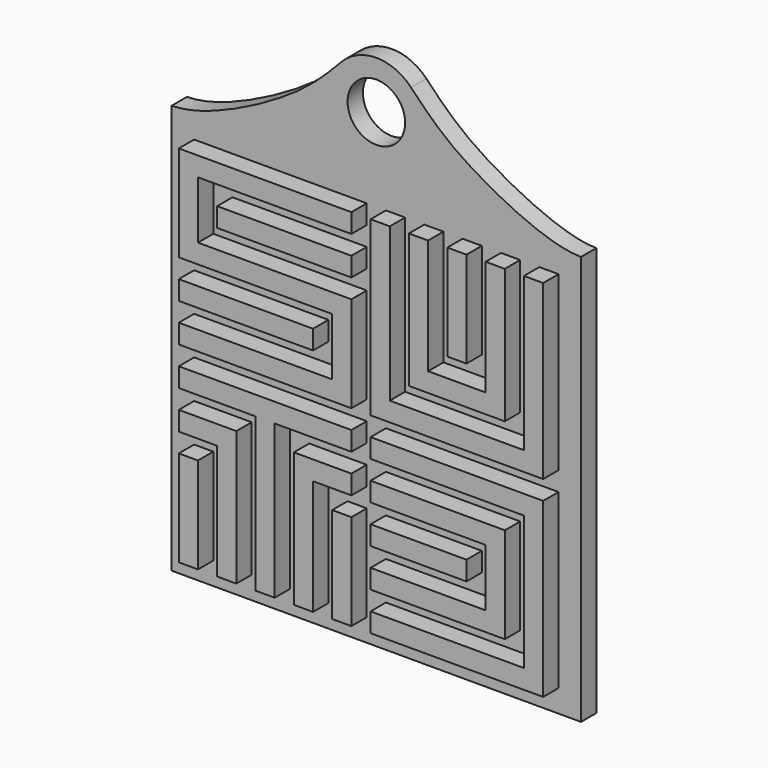
from build123d import *

# Parameters (mm, degrees)
F0_W     = 25.4
F0_H     = 25.4
F1_DEPTH = 25.4
F2_DEPTH = 25.4
F3_DEPTH = 25.4
F4_W     = 542.145707978
F4_H     = 542.145707978
F4_R     = 38.1
F5_DEPTH = 25.4


with BuildPart() as f1:
    # F0 (on Front) → F1 (new body)
    with BuildSketch(Plane.XZ):
        with Locations((101.6, 101.6)):
            Rectangle(F0_W, F0_H)
        with Locations((76.2, 101.6)):
            Rectangle(F0_W, F0_H)
        with Locations((50.8, 101.6)):
            Rectangle(F0_W, F0_H)
        with Locations((25.4, 101.6)):
            Rectangle(F0_W, F0_H)
        with Locations((0, 101.6)):
            Rectangle(F0_W, F0_H)
        with Locations((-25.4, 101.6)):
            Rectangle(F0_W, F0_H)
        with Locations((-50.8, 101.6)):
            Rectangle(F0_W, F0_H)
        with Locations((-76.2, 101.6)):
            Rectangle(F0_W, F0_H)
        with Locations((-101.6, 101.6)):
            Rectangle(F0_W, F0_H)
        with Locations((-101.6, 76.2)):
            Rectangle(F0_W, F0_H)
        with Locations((-101.6, 50.8)):
            Rectangle(F0_W, F0_H)
        with Locations((-101.6, 25.4)):
            Rectangle(F0_W, F0_H)
        with Locations((-101.6, 0)):
            Rectangle(F0_W, F0_H)
        with Locations((-76.2, 0)):
            Rectangle(F0_W, F0_H)
        with Locations((-50.8, 0)):
            Rectangle(F0_W, F0_H)
        with Locations((-25.4, 0)):
            Rectangle(F0_W, F0_H)
        Rectangle(F0_W, F0_H)
        with Locations((25.4, 0)):
            Rectangle(F0_W, F0_H)
        with Locations((50.8, 0)):
            Rectangle(F0_W, F0_H)
        with Locations((76.2, 0)):
            Rectangle(F0_W, F0_H)
        with Locations((101.6, 0)):
            Rectangle(F0_W, F0_H)
    extrude(amount=F1_DEPTH)

    # F0 (on Front) → F2, piece 4 (join)
    with BuildSketch(Plane.XZ):
        with Locations((101.6, -76.2)):
            Rectangle(F0_W, F0_H)
        with Locations((101.6, -25.4)):
            Rectangle(F0_W, F0_H)
        with Locations((101.6, -50.8)):
            Rectangle(F0_W, F0_H)
        with Locations((101.6, -101.6)):
            Rectangle(F0_W, F0_H)
        with Locations((25.4, -101.6)):
            Rectangle(F0_W, F0_H)
        with Locations((50.8, -101.6)):
            Rectangle(F0_W, F0_H)
        with Locations((76.2, -101.6)):
            Rectangle(F0_W, F0_H)
        with Locations((-76.2, -101.6)):
            Rectangle(F0_W, F0_H)
        with Locations((-50.8, -101.6)):
            Rectangle(F0_W, F0_H)
        with Locations((-25.4, -101.6)):
            Rectangle(F0_W, F0_H)
        with Locations((0, -101.6)):
            Rectangle(F0_W, F0_H)
        with Locations((-101.6, -101.6)):
            Rectangle(F0_W, F0_H)
    extrude(amount=F2_DEPTH)



with BuildPart() as f2:
    # F0 (on Front) → F2 (new body)
    with BuildSketch(Plane.XZ):
        Polygon((165.1, 88.9), (165.1, 114.3), (139.7, 114.3), (139.7, -114.3), (368.3, -114.3), (368.3, 114.3), (342.9, 114.3), (342.9, 88.9), (342.9, 63.5), (342.9, 38.1), (342.9, 12.7), (342.9, -12.7), (342.9, -38.1), (342.9, -63.5), (342.9, -88.9), (317.5, -88.9), (292.1, -88.9), (266.7, -88.9), (241.3, -88.9), (215.9, -88.9), (190.5, -88.9), (165.1, -88.9), (165.1, -63.5), (165.1, -38.1), (165.1, -12.7), (165.1, 12.7), (165.1, 38.1), (165.1, 63.5), align=None)
    extrude(amount=F2_DEPTH)


with BuildPart() as f2b:
    # F0 (on Front) → F2, piece 2 (new body)
    with BuildSketch(Plane.XZ):
        Polygon((215.9, 88.9), (215.9, 114.3), (190.5, 114.3), (190.5, 88.9), (190.5, 63.5), (215.9, 63.5), align=None)
        with Locations((203.2, 50.8)):
            Rectangle(F0_W, F0_H)
        with Locations((203.2, 25.4)):
            Rectangle(F0_W, F0_H)
        with Locations((203.2, 0)):
            Rectangle(F0_W, F0_H)
        with Locations((203.2, -25.4)):
            Rectangle(F0_W, F0_H)
        with Locations((203.2, -50.8)):
            Rectangle(F0_W, F0_H)
        with Locations((279.4, -50.8)):
            Rectangle(F0_W, F0_H)
        with Locations((304.8, -50.8)):
            Rectangle(F0_W, F0_H)
        with Locations((228.6, -50.8)):
            Rectangle(F0_W, F0_H)
        with Locations((254, -50.8)):
            Rectangle(F0_W, F0_H)
        with Locations((304.8, 76.2)):
            Rectangle(F0_W, F0_H)
        with Locations((304.8, 101.6)):
            Rectangle(F0_W, F0_H)
        with Locations((304.8, 25.4)):
            Rectangle(F0_W, F0_H)
        with Locations((304.8, 0)):
            Rectangle(F0_W, F0_H)
        with Locations((304.8, -25.4)):
            Rectangle(F0_W, F0_H)
        with Locations((304.8, 50.8)):
            Rectangle(F0_W, F0_H)
    extrude(amount=F2_DEPTH)


with BuildPart() as f2c:
    # F0 (on Front) → F2, piece 3 (new body)
    with BuildSketch(Plane.XZ):
        with Locations((254, 76.2)):
            Rectangle(F0_W, F0_H)
        with Locations((254, 25.4)):
            Rectangle(F0_W, F0_H)
        with Locations((254, 50.8)):
            Rectangle(F0_W, F0_H)
        with Locations((254, 0)):
            Rectangle(F0_W, F0_H)
        with Locations((254, 101.6)):
            Rectangle(F0_W, F0_H)
    extrude(amount=F2_DEPTH)


with BuildPart() as f2d:
    # F0 (on Front) → F2, piece 5 (new body)
    with BuildSketch(Plane.XZ):
        with Locations((-25.4, -50.8)):
            Rectangle(F0_W, F0_H)
        with Locations((-101.6, -50.8)):
            Rectangle(F0_W, F0_H)
        with Locations((-76.2, -50.8)):
            Rectangle(F0_W, F0_H)
        with Locations((50.8, -50.8)):
            Rectangle(F0_W, F0_H)
        with Locations((25.4, -50.8)):
            Rectangle(F0_W, F0_H)
        with Locations((-50.8, -50.8)):
            Rectangle(F0_W, F0_H)
        with Locations((0, -50.8)):
            Rectangle(F0_W, F0_H)
    extrude(amount=F2_DEPTH)


with BuildPart() as f2e:
    # F0 (on Front) → F2, piece 6 (new body)
    with BuildSketch(Plane.XZ):
        with Locations((-101.6, -152.4)):
            Rectangle(F0_W, F0_H)
        with Locations((101.6, -152.4)):
            Rectangle(F0_W, F0_H)
        with Locations((25.4, -152.4)):
            Rectangle(F0_W, F0_H)
        with Locations((50.8, -152.4)):
            Rectangle(F0_W, F0_H)
        with Locations((-25.4, -152.4)):
            Rectangle(F0_W, F0_H)
        with Locations((76.2, -152.4)):
            Rectangle(F0_W, F0_H)
        with Locations((0, -152.4)):
            Rectangle(F0_W, F0_H)
        with Locations((-76.2, -152.4)):
            Rectangle(F0_W, F0_H)
        with Locations((-50.8, -152.4)):
            Rectangle(F0_W, F0_H)
        with Locations((0, -355.6)):
            Rectangle(F0_W, F0_H)
        with Locations((0, -203.2)):
            Rectangle(F0_W, F0_H)
        with Locations((0, -228.6)):
            Rectangle(F0_W, F0_H)
        with Locations((0, -254)):
            Rectangle(F0_W, F0_H)
        with Locations((0, -279.4)):
            Rectangle(F0_W, F0_H)
        with Locations((0, -304.8)):
            Rectangle(F0_W, F0_H)
        with Locations((0, -177.8)):
            Rectangle(F0_W, F0_H)
        with Locations((0, -330.2)):
            Rectangle(F0_W, F0_H)
    extrude(amount=F2_DEPTH)


with BuildPart() as f2f:
    # F0 (on Front) → F2, piece 7 (new body)
    with BuildSketch(Plane.XZ):
        with Locations((76.2, -203.2)):
            Rectangle(F0_W, F0_H)
        with Locations((101.6, -203.2)):
            Rectangle(F0_W, F0_H)
        with Locations((50.8, -203.2)):
            Rectangle(F0_W, F0_H)
        with Locations((50.8, -228.6)):
            Rectangle(F0_W, F0_H)
        with Locations((50.8, -355.6)):
            Rectangle(F0_W, F0_H)
        with Locations((50.8, -254)):
            Rectangle(F0_W, F0_H)
        with Locations((50.8, -279.4)):
            Rectangle(F0_W, F0_H)
        with Locations((50.8, -304.8)):
            Rectangle(F0_W, F0_H)
        with Locations((50.8, -330.2)):
            Rectangle(F0_W, F0_H)
    extrude(amount=F2_DEPTH)


with BuildPart() as f2g:
    # F0 (on Front) → F2, piece 8 (new body)
    with BuildSketch(Plane.XZ):
        with Locations((101.6, -355.6)):
            Rectangle(F0_W, F0_H)
        with Locations((101.6, -254)):
            Rectangle(F0_W, F0_H)
        with Locations((101.6, -279.4)):
            Rectangle(F0_W, F0_H)
        with Locations((101.6, -304.8)):
            Rectangle(F0_W, F0_H)
        with Locations((101.6, -330.2)):
            Rectangle(F0_W, F0_H)
    extrude(amount=F2_DEPTH)


with BuildPart() as f2h:
    # F0 (on Front) → F2, piece 9 (new body)
    with BuildSketch(Plane.XZ):
        with Locations((-76.2, -203.2)):
            Rectangle(F0_W, F0_H)
        with Locations((-50.8, -203.2)):
            Rectangle(F0_W, F0_H)
        with Locations((-101.6, -203.2)):
            Rectangle(F0_W, F0_H)
        with Locations((-50.8, -228.6)):
            Rectangle(F0_W, F0_H)
        with Locations((-50.8, -254)):
            Rectangle(F0_W, F0_H)
        with Locations((-50.8, -279.4)):
            Rectangle(F0_W, F0_H)
        with Locations((-50.8, -304.8)):
            Rectangle(F0_W, F0_H)
        with Locations((-50.8, -330.2)):
            Rectangle(F0_W, F0_H)
        with Locations((-50.8, -355.6)):
            Rectangle(F0_W, F0_H)
    extrude(amount=F2_DEPTH)


with BuildPart() as f2i:
    # F0 (on Front) → F2, piece 10 (new body)
    with BuildSketch(Plane.XZ):
        with Locations((-101.6, -355.6)):
            Rectangle(F0_W, F0_H)
        with Locations((-101.6, -254)):
            Rectangle(F0_W, F0_H)
        with Locations((-101.6, -279.4)):
            Rectangle(F0_W, F0_H)
        with Locations((-101.6, -304.8)):
            Rectangle(F0_W, F0_H)
        with Locations((-101.6, -330.2)):
            Rectangle(F0_W, F0_H)
    extrude(amount=F2_DEPTH)


with BuildPart() as f2j:
    # F0 (on Front) → F2, piece 11 (new body)
    with BuildSketch(Plane.XZ):
        with Locations((152.4, -152.4)):
            Rectangle(F0_W, F0_H)
        with Locations((355.6, -152.4)):
            Rectangle(F0_W, F0_H)
        with Locations((203.2, -152.4)):
            Rectangle(F0_W, F0_H)
        with Locations((279.4, -152.4)):
            Rectangle(F0_W, F0_H)
        with Locations((304.8, -152.4)):
            Rectangle(F0_W, F0_H)
        with Locations((228.6, -152.4)):
            Rectangle(F0_W, F0_H)
        with Locations((254, -152.4)):
            Rectangle(F0_W, F0_H)
        with Locations((330.2, -152.4)):
            Rectangle(F0_W, F0_H)
        with Locations((177.8, -152.4)):
            Rectangle(F0_W, F0_H)
        with Locations((355.6, -355.6)):
            Rectangle(F0_W, F0_H)
        with Locations((355.6, -330.2)):
            Rectangle(F0_W, F0_H)
        with Locations((355.6, -203.2)):
            Rectangle(F0_W, F0_H)
        with Locations((355.6, -177.8)):
            Rectangle(F0_W, F0_H)
        with Locations((355.6, -228.6)):
            Rectangle(F0_W, F0_H)
        with Locations((355.6, -254)):
            Rectangle(F0_W, F0_H)
        with Locations((355.6, -279.4)):
            Rectangle(F0_W, F0_H)
        with Locations((355.6, -304.8)):
            Rectangle(F0_W, F0_H)
        with Locations((152.4, -355.6)):
            Rectangle(F0_W, F0_H)
        with Locations((177.8, -355.6)):
            Rectangle(F0_W, F0_H)
        with Locations((203.2, -355.6)):
            Rectangle(F0_W, F0_H)
        with Locations((254, -355.6)):
            Rectangle(F0_W, F0_H)
        with Locations((228.6, -355.6)):
            Rectangle(F0_W, F0_H)
        with Locations((279.4, -355.6)):
            Rectangle(F0_W, F0_H)
        with Locations((304.8, -355.6)):
            Rectangle(F0_W, F0_H)
        with Locations((330.2, -355.6)):
            Rectangle(F0_W, F0_H)
    extrude(amount=F2_DEPTH)


with BuildPart() as f2k:
    # F0 (on Front) → F2, piece 12 (new body)
    with BuildSketch(Plane.XZ):
        with Locations((304.8, -203.2)):
            Rectangle(F0_W, F0_H)
        with Locations((304.8, -228.6)):
            Rectangle(F0_W, F0_H)
        with Locations((304.8, -254)):
            Rectangle(F0_W, F0_H)
        with Locations((304.8, -279.4)):
            Rectangle(F0_W, F0_H)
        with Locations((304.8, -304.8)):
            Rectangle(F0_W, F0_H)
        with Locations((279.4, -203.2)):
            Rectangle(F0_W, F0_H)
        with Locations((177.8, -203.2)):
            Rectangle(F0_W, F0_H)
        with Locations((254, -203.2)):
            Rectangle(F0_W, F0_H)
        with Locations((228.6, -203.2)):
            Rectangle(F0_W, F0_H)
        with Locations((203.2, -203.2)):
            Rectangle(F0_W, F0_H)
        with Locations((152.4, -203.2)):
            Rectangle(F0_W, F0_H)
        with Locations((177.8, -304.8)):
            Rectangle(F0_W, F0_H)
        with Locations((279.4, -304.8)):
            Rectangle(F0_W, F0_H)
        with Locations((203.2, -304.8)):
            Rectangle(F0_W, F0_H)
        with Locations((228.6, -304.8)):
            Rectangle(F0_W, F0_H)
        with Locations((254, -304.8)):
            Rectangle(F0_W, F0_H)
        with Locations((152.4, -304.8)):
            Rectangle(F0_W, F0_H)
    extrude(amount=F2_DEPTH)


with BuildPart() as f2l:
    # F0 (on Front) → F2, piece 13 (new body)
    with BuildSketch(Plane.XZ):
        with Locations((177.8, -254)):
            Rectangle(F0_W, F0_H)
        with Locations((254, -254)):
            Rectangle(F0_W, F0_H)
        with Locations((228.6, -254)):
            Rectangle(F0_W, F0_H)
        with Locations((203.2, -254)):
            Rectangle(F0_W, F0_H)
        with Locations((152.4, -254)):
            Rectangle(F0_W, F0_H)
    extrude(amount=F2_DEPTH)


with BuildPart() as f3:
    # F0 (on Front) → F3 (new body)
    with BuildSketch(Plane.XZ):
        with Locations((101.6, 50.8)):
            Rectangle(F0_W, F0_H)
        with Locations((76.2, 50.8)):
            Rectangle(F0_W, F0_H)
        with Locations((50.8, 50.8)):
            Rectangle(F0_W, F0_H)
        with Locations((25.4, 50.8)):
            Rectangle(F0_W, F0_H)
        with Locations((0, 50.8)):
            Rectangle(F0_W, F0_H)
        with Locations((-25.4, 50.8)):
            Rectangle(F0_W, F0_H)
        with Locations((-50.8, 50.8)):
            Rectangle(F0_W, F0_H)
    extrude(amount=F3_DEPTH)


with BuildPart() as f1_1:
    add(f1.part)

    add(f2.part)  # F5 merges F2

    add(f2b.part)  # F5 merges F2b

    add(f2c.part)  # F5 merges F2c

    add(f2d.part)  # F5 merges F2d

    add(f2e.part)  # F5 merges F2e

    add(f2f.part)  # F5 merges F2f

    add(f2g.part)  # F5 merges F2g

    add(f2h.part)  # F5 merges F2h

    add(f2i.part)  # F5 merges F2i

    add(f2j.part)  # F5 merges F2j

    add(f2k.part)  # F5 merges F2k

    add(f2l.part)  # F5 merges F2l

    add(f3.part)  # F5 merges F3
    # F4 (on Front) → F5 (join)
    with BuildSketch(Plane.XZ):
        with Locations((127, -127)):
            Rectangle(F4_W, F4_H)
        with BuildLine():
            add(Edge.make_bspline(
                [(-144.072853989, 144.072853989), (-103.5956195518, 144.072853989), (11.0791075699, 200.386820712), (52.5784679405, 238.5553268185), (81.0012444854, 268.4210836887)],
                knots=[0, 0, 0, 0, 0.5472424766, 1, 1, 1, 1], degree=3))
            Line((-144.072853989, 144.072853989), (398.072853989, 144.072853989))
            add(Edge.make_bspline(
                [(398.072853989, 144.072853989), (357.5956195518, 144.072853989), (242.9208924301, 200.386820712), (201.4215320595, 238.5553268185), (172.9987555146, 268.4210836887)],
                knots=[0, 0, 0, 0, 0.5472424766, 1, 1, 1, 1], degree=3))
            ThreePointArc((172.9987555146, 268.4210836887), (185.9625770094, 248.2173203745), (190.5, 224.6447831243))
            ThreePointArc((190.5, 224.6447831243), (103.4274627498, 165.6822061149), (81.0012444854, 268.4210836887))
        make_face()
        with BuildLine():
            ThreePointArc((172.9987555146, 268.4210836887), (127, 288.1447831243), (81.0012444854, 268.4210836887))
            ThreePointArc((81.0012444854, 268.4210836887), (103.4274627498, 165.6822061149), (190.5, 224.6447831243))
            ThreePointArc((190.5, 224.6447831243), (185.9625770094, 248.2173203745), (172.9987555146, 268.4210836887))
        make_face()
        with Locations((127, 224.6447831243)):
            Circle(F4_R, mode=Mode.SUBTRACT)
    extrude(amount=-F5_DEPTH)


solid = f1_1.part
